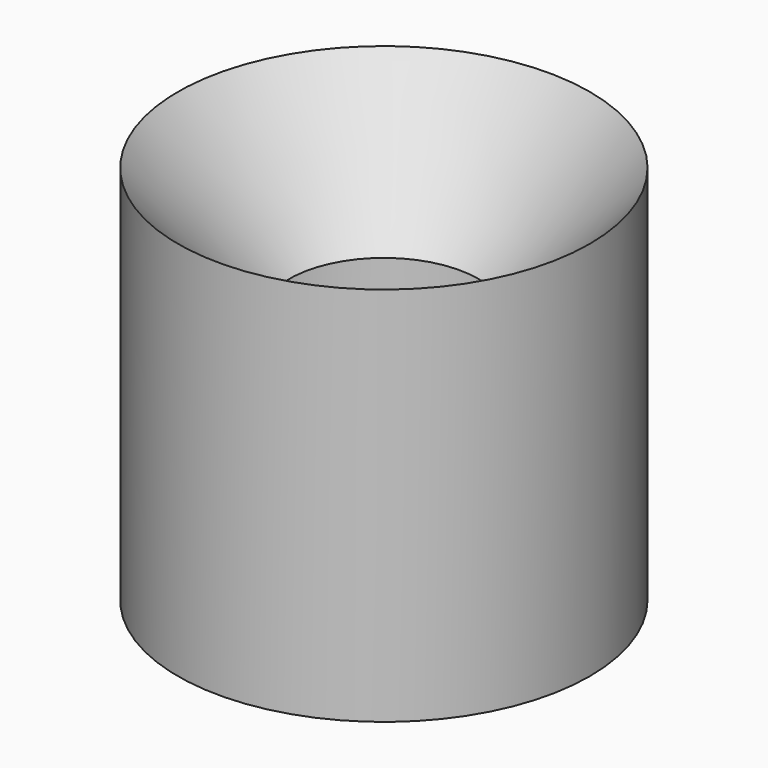
from build123d import *

# Parameters (mm, degrees)
F0_R     = 9.8
F0_R_2   = 7.6
F3_DEPTH = 12


with BuildPart() as f3:
    # F0 (on Top) → F3 (new body)
    with BuildSketch(Plane.XY):
        Circle(F0_R)
        Circle(F0_R_2, mode=Mode.SUBTRACT)
    extrude(amount=F3_DEPTH)

    # F1 (on Front) → F4 (revolve)
    with BuildSketch(Plane.XZ):
        Polygon((9.8, 18.115385), (4.5, 12), (9, 12), (9.8, 12), align=None)
    revolve(axis=Axis((0, 0, -6.017471), (0, 0, -1)))


solid = f3.part
